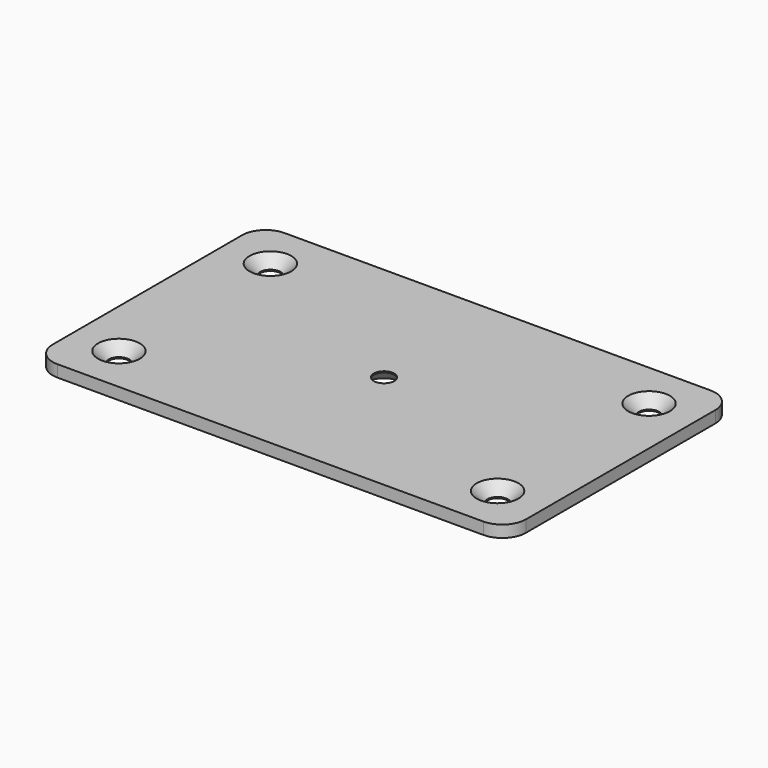
from build123d import *

# Parameters (mm, degrees)
F0_W           = 127
F0_H           = 76.2
F1_DEPTH       = 3.175
F3_D           = 5.5
F3_CSINK_D     = 11.2
F3_CSINK_ANGLE = 90
F5_D           = 5.5
F5_CSINK_D     = 11.2
F5_CSINK_ANGLE = 90
F6_R           = 6.35


with BuildPart() as f1:
    # F0 (on Top) → F1 (new body)
    with BuildSketch(Plane.XY):
        Rectangle(F0_W, F0_H)
    extrude(amount=-F1_DEPTH)

    # F3 (through all)
    with Locations(Plane.XY):
        with Locations((-50.8, -25.4), (-50.8, 25.4), (50.8, 25.4), (50.8, -25.4)):
            CounterSinkHole(F3_D / 2, F3_CSINK_D / 2, counter_sink_angle=F3_CSINK_ANGLE)

    # F5 (through all)
    with Locations(Plane(origin=(0, 0, -3.175), x_dir=(1, 0, 0), z_dir=(0, 0, -1))):
        with Locations((0, 0)):
            CounterSinkHole(F5_D / 2, F5_CSINK_D / 2, counter_sink_angle=F5_CSINK_ANGLE)

    # F6
    f6_edges = [f1.edges().sort_by_distance(p)[0] for p in [
        (63.5, -38.1, -1.5875),
        (63.5, 38.1, -1.5875),
        (-63.5, -38.1, -1.5875),
        (-63.5, 38.1, -1.5875),
    ]]
    fillet(f6_edges, radius=F6_R)


solid = f1.part
